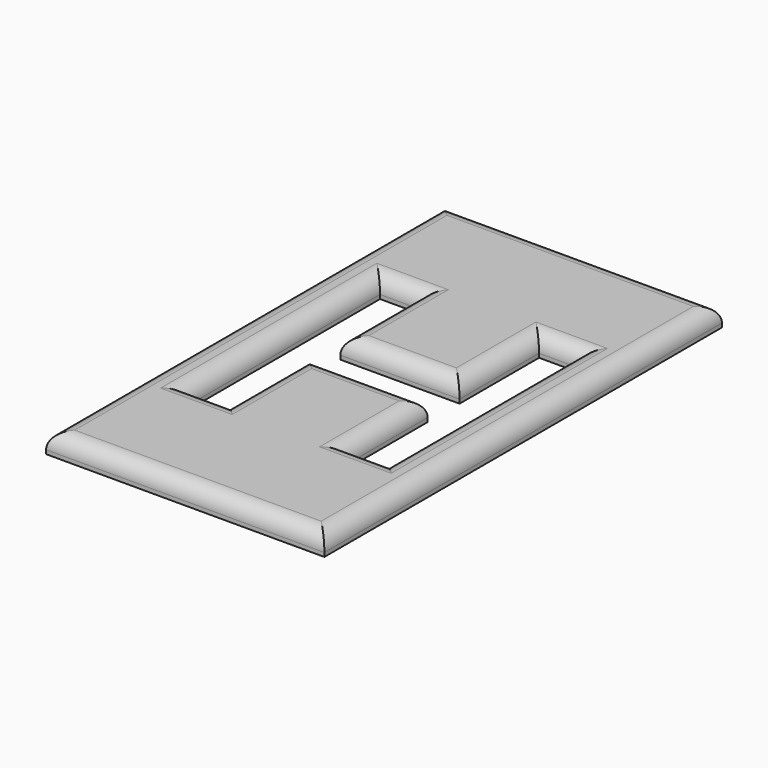
from build123d import *

# Parameters (mm, degrees)
F0_W     = 88.9
F0_H     = 158.75
F1_DEPTH = 6.35
F2_R     = 5.08


with BuildPart() as f1:
    # F0 (on Top) → F1 (new body)
    with BuildSketch(Plane.XY):
        Rectangle(F0_W, F0_H)
        Polygon((31.75, -38.1), (25.4, -38.1), (19.05, -38.1), (19.05, -6.35), (-19.05, -6.35), (-19.05, -38.1), (-25.4, -38.1), (-31.750001, -38.1), (-31.750001, 38.1), (-25.4, 38.1), (-19.05, 38.1), (-19.05, 6.35), (19.05, 6.35), (19.05, 38.1), (25.4, 38.1), (31.75, 38.1), align=None, mode=Mode.SUBTRACT)
    extrude(amount=F1_DEPTH)

    # F2
    f2_edges = [f1.edges().sort_by_distance(p)[0] for p in [
        (0, -79.375, 6.35),
        (44.45, 0, 6.35),
        (0, 79.375, 6.35),
        (-44.45, 0, 6.35),
        (19.05, 22.225, 6.35),
        (25.4, 38.1, 6.35),
        (31.75, 0, 6.35),
        (25.4, -38.1, 6.35),
        (19.05, -22.225, 6.35),
        (0, -6.35, 6.35),
        (-19.05, -22.225, 6.35),
        (-25.400001, -38.1, 6.35),
        (-31.750001, 0, 6.35),
        (-25.400001, 38.1, 6.35),
        (-19.05, 22.225, 6.35),
        (0, 6.35, 6.35),
    ]]
    fillet(f2_edges, radius=F2_R)


solid = f1.part
